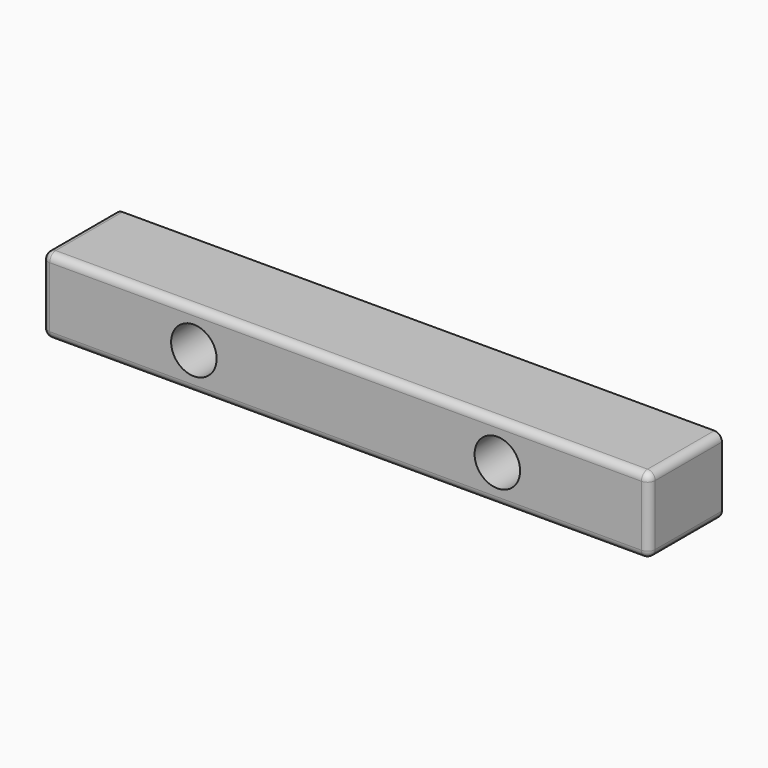
from build123d import *

# Parameters (mm, degrees)
F0_W     = 80
F0_H     = 12
F1_DEPTH = 10
F2_R     = 2.2
F3_DEPTH = 12.001
F2_R_2   = 3
F4_DEPTH = 6
F5_R     = 1


with BuildPart() as f1:
    # F0 (on Top) → F1 (new body)
    with BuildSketch(Plane.XY):
        Rectangle(F0_W, F0_H)
    extrude(amount=F1_DEPTH)

    # F2 (on face) → F3 (cut, through all)
    with BuildSketch(Plane.XZ.offset(6)):
        with Locations((-20, 5)):
            Circle(F2_R)
        with Locations((20, 5)):
            Circle(F2_R)
    extrude(amount=-F3_DEPTH, mode=Mode.SUBTRACT)

    # F2 (on face) → F4 (cut)
    with BuildSketch(Plane.XZ.offset(6)):
        with Locations((-20, 5)):
            Circle(F2_R_2)
        with Locations((-20, 5)):
            Circle(F2_R, mode=Mode.SUBTRACT)
        with Locations((20, 5)):
            Circle(F2_R_2)
        with Locations((20, 5)):
            Circle(F2_R, mode=Mode.SUBTRACT)
    extrude(amount=-F4_DEPTH, mode=Mode.SUBTRACT)

    # F5
    f5_edges = [f1.edges().sort_by_distance(p)[0] for p in [
        (0, -6, 10),
        (-40, 0, 10),
        (40, 0, 10),
        (-40, 0, 0),
        (0, -6, 0),
        (40, -6, 5),
        (-40, -6, 5),
        (40, 0, 0),
    ]]
    fillet(f5_edges, radius=F5_R)


solid = f1.part
